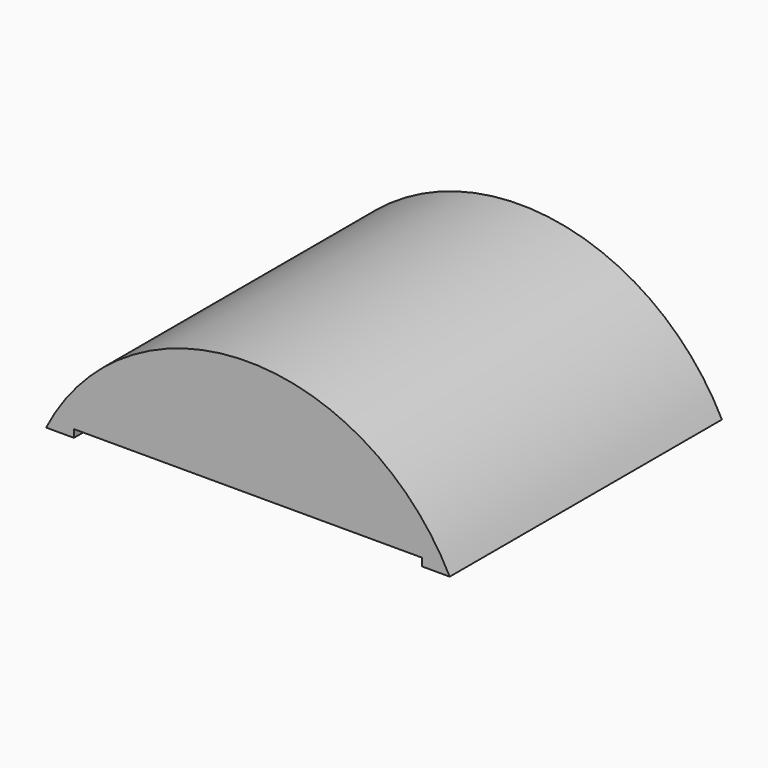
from build123d import *

# Parameters (mm, degrees)
F1_DEPTH = 55.88
F2_R     = 9.652
F3_DEPTH = 12.446
F4_W     = 57.15
F4_H     = 55.88
F5_DEPTH = 1.27


with BuildPart() as f1:
    # F0 (on Front) → F1 (new body)
    with BuildSketch(Plane.XZ):
        with BuildLine():
            Line((-33.601068, 0), (32.692932, 0))
            ThreePointArc((32.692932, 0), (-0.454068, 20.322772), (-33.601068, 0))
        make_face()
    extrude(amount=F1_DEPTH)

    # F2 (on face) → F3 (cut)
    with BuildSketch(Plane(origin=(0, 0, 0), x_dir=(1, 0, 0), z_dir=(0, 0, -1))):
        with Locations((0, 27.94)):
            Circle(F2_R)
    extrude(amount=-F3_DEPTH, mode=Mode.SUBTRACT)

    # F4 (on face) → F5 (cut)
    with BuildSketch(Plane(origin=(0, 0, 0), x_dir=(1, 0, 0), z_dir=(0, 0, -1))):
        with Locations((-0.454068, 27.94)):
            Rectangle(F4_W, F4_H)
    extrude(amount=-F5_DEPTH, mode=Mode.SUBTRACT)


solid = f1.part
